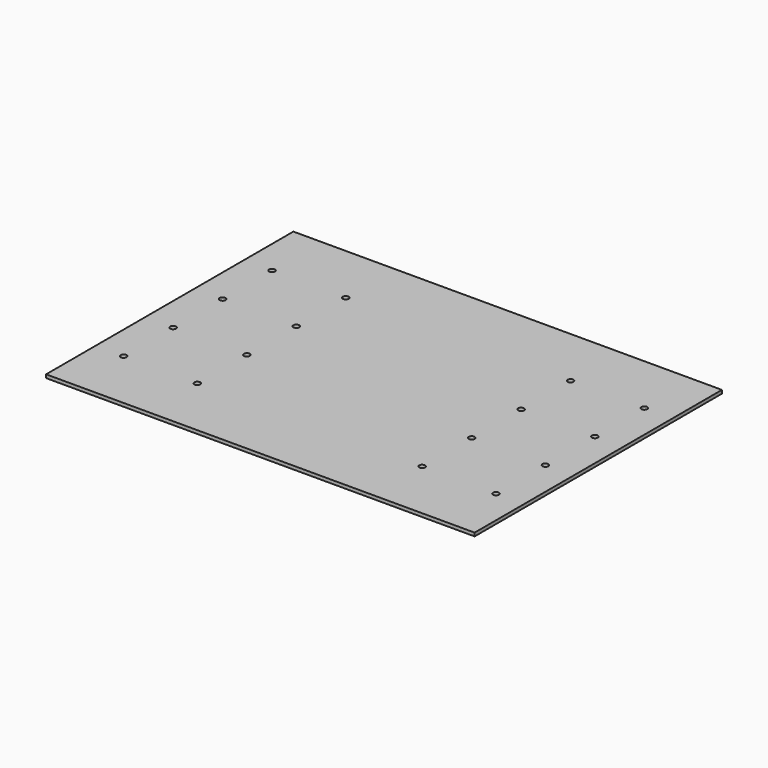
from build123d import *

# Parameters (mm, degrees)
F0_W     = 1525
F0_H     = 1100
F0_R     = 10.5
F1_DEPTH = 12


with BuildPart() as f1:
    # F0 (on Top) → F1 (new body)
    with BuildSketch(Plane.XY):
        Rectangle(F0_W, F0_H)
        with Locations((-662.5, -330)):
            Circle(F0_R, mode=Mode.SUBTRACT)
        with Locations((-400, -330)):
            Circle(F0_R, mode=Mode.SUBTRACT)
        with Locations((-662.5, -110)):
            Circle(F0_R, mode=Mode.SUBTRACT)
        with Locations((-400, -110)):
            Circle(F0_R, mode=Mode.SUBTRACT)
        with Locations((400, -330)):
            Circle(F0_R, mode=Mode.SUBTRACT)
        with Locations((662.5, -330)):
            Circle(F0_R, mode=Mode.SUBTRACT)
        with Locations((400, -110)):
            Circle(F0_R, mode=Mode.SUBTRACT)
        with Locations((662.5, -110)):
            Circle(F0_R, mode=Mode.SUBTRACT)
        with Locations((-662.5, 110)):
            Circle(F0_R, mode=Mode.SUBTRACT)
        with Locations((-400, 110)):
            Circle(F0_R, mode=Mode.SUBTRACT)
        with Locations((-662.5, 330)):
            Circle(F0_R, mode=Mode.SUBTRACT)
        with Locations((-400, 330)):
            Circle(F0_R, mode=Mode.SUBTRACT)
        with Locations((400, 110)):
            Circle(F0_R, mode=Mode.SUBTRACT)
        with Locations((662.5, 110)):
            Circle(F0_R, mode=Mode.SUBTRACT)
        with Locations((400, 330)):
            Circle(F0_R, mode=Mode.SUBTRACT)
        with Locations((662.5, 330)):
            Circle(F0_R, mode=Mode.SUBTRACT)
    extrude(amount=F1_DEPTH)


solid = f1.part
